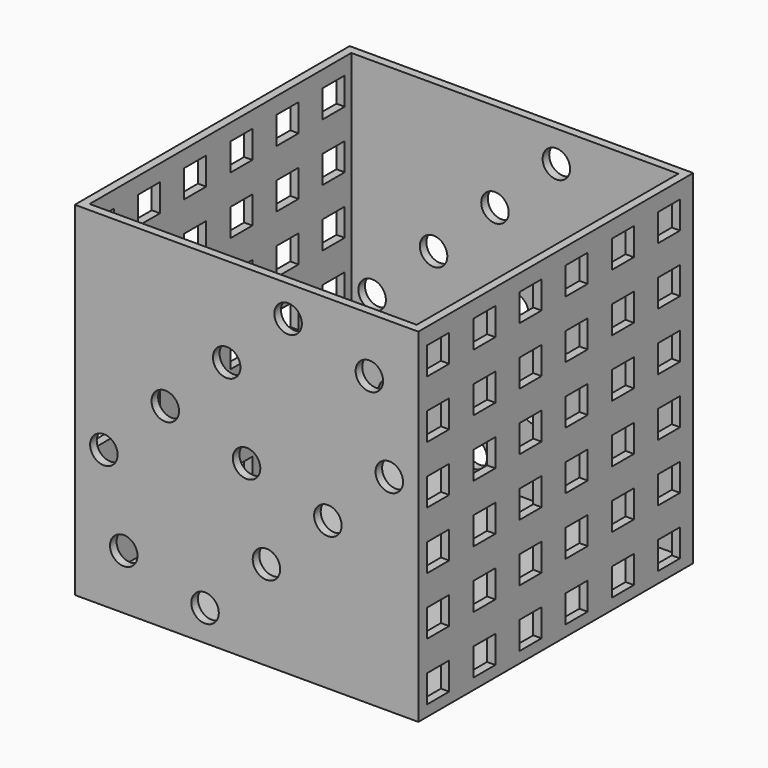
from build123d import *

# Parameters (mm, degrees)
F0_W     = 79.375
F0_H     = 79.375
F1_DEPTH = 79.375
F2_T     = -1.905
F3_W     = 6.35
F3_H     = 6.35
F4_DEPTH = 79.376
F5_R     = 3.175
F6_DEPTH = 79.376


with BuildPart() as f1:
    # F0 (on Top) → F1 (new body)
    with BuildSketch(Plane.XY):
        with Locations((39.6875, 39.6875)):
            Rectangle(F0_W, F0_H)
    extrude(amount=F1_DEPTH)

    # F2
    f2_openings = [f1.faces().sort_by_distance(p)[0] for p in [
        (39.6875, 39.6875, 79.375),
    ]]
    offset(amount=F2_T, openings=f2_openings)

    # F3 (on face) → F4 (cut, through all)
    with BuildSketch(Plane.YZ.offset(79.375)):
        with Locations((5.715, 72.39)):
            Rectangle(F3_W, F3_H)
        with Locations((19.05, 72.39)):
            Rectangle(F3_W, F3_H)
        with Locations((32.385, 72.39)):
            Rectangle(F3_W, F3_H)
        with Locations((45.72, 72.39)):
            Rectangle(F3_W, F3_H)
        with Locations((59.055, 72.39)):
            Rectangle(F3_W, F3_H)
        with Locations((72.39, 72.39)):
            Rectangle(F3_W, F3_H)
        with Locations((72.39, 59.055)):
            Rectangle(F3_W, F3_H)
        with Locations((59.055, 59.055)):
            Rectangle(F3_W, F3_H)
        with Locations((45.72, 59.055)):
            Rectangle(F3_W, F3_H)
        with Locations((32.385, 59.055)):
            Rectangle(F3_W, F3_H)
        with Locations((19.05, 59.055)):
            Rectangle(F3_W, F3_H)
        with Locations((5.715, 59.055)):
            Rectangle(F3_W, F3_H)
        with Locations((5.715, 45.72)):
            Rectangle(F3_W, F3_H)
        with Locations((19.05, 45.72)):
            Rectangle(F3_W, F3_H)
        with Locations((32.385, 45.72)):
            Rectangle(F3_W, F3_H)
        with Locations((45.72, 45.72)):
            Rectangle(F3_W, F3_H)
        with Locations((59.055, 45.72)):
            Rectangle(F3_W, F3_H)
        with Locations((72.39, 45.72)):
            Rectangle(F3_W, F3_H)
        with Locations((72.39, 32.385)):
            Rectangle(F3_W, F3_H)
        with Locations((59.055, 32.385)):
            Rectangle(F3_W, F3_H)
        with Locations((45.72, 32.385)):
            Rectangle(F3_W, F3_H)
        with Locations((32.385, 32.385)):
            Rectangle(F3_W, F3_H)
        with Locations((19.05, 32.385)):
            Rectangle(F3_W, F3_H)
        with Locations((5.715, 32.385)):
            Rectangle(F3_W, F3_H)
        with Locations((5.715, 19.05)):
            Rectangle(F3_W, F3_H)
        with Locations((19.05, 19.05)):
            Rectangle(F3_W, F3_H)
        with Locations((32.385, 19.05)):
            Rectangle(F3_W, F3_H)
        with Locations((45.72, 19.05)):
            Rectangle(F3_W, F3_H)
        with Locations((59.055, 19.05)):
            Rectangle(F3_W, F3_H)
        with Locations((72.39, 19.05)):
            Rectangle(F3_W, F3_H)
        with Locations((72.39, 5.715)):
            Rectangle(F3_W, F3_H)
        with Locations((59.055, 5.715)):
            Rectangle(F3_W, F3_H)
        with Locations((45.72, 5.715)):
            Rectangle(F3_W, F3_H)
        with Locations((32.385, 5.715)):
            Rectangle(F3_W, F3_H)
        with Locations((19.05, 5.715)):
            Rectangle(F3_W, F3_H)
        with Locations((5.715, 5.715)):
            Rectangle(F3_W, F3_H)
    extrude(amount=-F4_DEPTH, mode=Mode.SUBTRACT)

    # F5 (on face) → F6 (cut, through all)
    with BuildSketch(Plane(origin=(0, 79.375, 0), x_dir=(-1, 0, 0), z_dir=(0, 1, 0))):
        with Locations((-49.282091, 72.21444)):
            Circle(F5_R)
        with Locations((-35.095077, 58.72069)):
            Circle(F5_R)
        with Locations((-20.908063, 45.22694)):
            Circle(F5_R)
        with Locations((-6.721049, 31.73319)):
            Circle(F5_R)
        with Locations((-11.313472, 12.7)):
            Circle(F5_R)
        with Locations((-30.092909, 7.16056)):
            Circle(F5_R)
        with Locations((-44.279923, 20.65431)):
            Circle(F5_R)
        with Locations((-58.466937, 34.14806)):
            Circle(F5_R)
        with Locations((-72.653951, 47.64181)):
            Circle(F5_R)
        with Locations((-68.061528, 66.675)):
            Circle(F5_R)
        with Locations((-39.6875, 39.6875)):
            Circle(F5_R)
    extrude(amount=-F6_DEPTH, mode=Mode.SUBTRACT)


solid = f1.part
